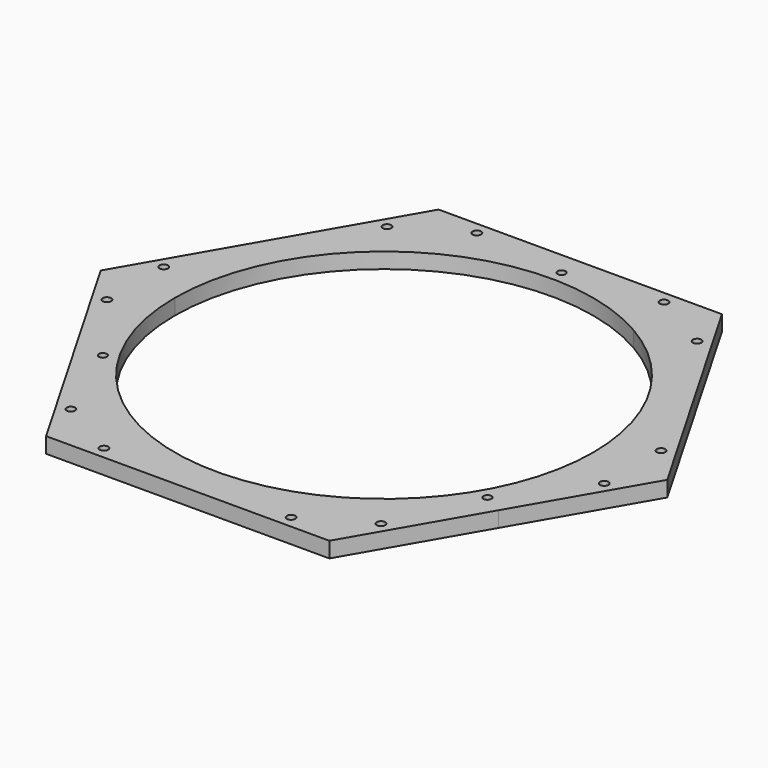
from build123d import *

# Parameters (mm, degrees)
F0_R     = 1.6375
F1_DEPTH = 6.35
F2_R     = 1.7272
F3_DEPTH = 25


with BuildPart() as f1:
    # F0 (on Top) → F1 (new body)
    with BuildSketch(Plane.XY):
        with BuildLine():
            ThreePointArc((86.602541, -50), (96.592583, -25.881904), (100, 0))
            ThreePointArc((100, 0), (96.592583, 25.881904), (86.602541, 49.999999))
            ThreePointArc((86.602541, 49.999999), (50.000001, 86.60254), (0, 100))
            ThreePointArc((0, 100), (-50.000001, 86.60254), (-86.602541, 49.999999))
            ThreePointArc((-86.602541, 49.999999), (-100, 1e-06), (-86.602542, -49.999998))
            ThreePointArc((-86.602542, -49.999998), (-50.000001, -86.60254), (0, -100))
            ThreePointArc((0, -100), (50, -86.60254), (86.602541, -50))
        make_face()
        with Locations((-78.364474, -45.24375)):
            Circle(F0_R, mode=Mode.SUBTRACT)
        with Locations((78.364474, -45.24375)):
            Circle(F0_R, mode=Mode.SUBTRACT)
        with BuildLine():
            ThreePointArc((42.64375, 73.861142), (73.861142, 42.64375), (85.2875, 0))
            ThreePointArc((85.2875, 0), (73.861142, -42.64375), (42.64375, -73.861142))
            ThreePointArc((42.64375, -73.861142), (-42.64375, -73.861142), (-85.2875, 0))
            ThreePointArc((-85.2875, 0), (-42.64375, 73.861142), (42.64375, 73.861142))
        make_face(mode=Mode.SUBTRACT)
        with Locations((0, 90.4875)):
            Circle(F0_R, mode=Mode.SUBTRACT)
        with BuildLine():
            ThreePointArc((86.602541, 49.999999), (96.592583, 25.881904), (100, 0))
            ThreePointArc((100, 0), (96.592583, -25.881904), (86.602541, -50))
            Line((86.602541, -50), (115.470054, 0))
            Line((115.470054, 0), (86.602541, 49.999999))
        make_face()
        with BuildLine():
            ThreePointArc((0, 100), (50.000001, 86.60254), (86.602541, 49.999999))
            Line((86.602541, 49.999999), (57.735027, 100))
            Line((57.735027, 100), (0, 100))
        make_face()
        with BuildLine():
            Line((57.735027, -100), (86.602541, -50))
            ThreePointArc((86.602541, -50), (50, -86.60254), (0, -100))
            Line((0, -100), (57.735027, -100))
        make_face()
        with BuildLine():
            ThreePointArc((-86.602541, 49.999999), (-50.000001, 86.60254), (0, 100))
            Line((0, 100), (-57.735027, 100))
            Line((-57.735027, 100), (-86.602541, 49.999999))
        make_face()
        with BuildLine():
            Line((-57.735027, -100), (0, -100))
            ThreePointArc((0, -100), (-50.000001, -86.60254), (-86.602542, -49.999998))
            Line((-86.602542, -49.999998), (-57.735027, -100))
        make_face()
        with BuildLine():
            ThreePointArc((-86.602542, -49.999998), (-100, 1e-06), (-86.602541, 49.999999))
            Line((-86.602541, 49.999999), (-115.470054, 0))
            Line((-115.470054, 0), (-86.602542, -49.999998))
        make_face()
    extrude(amount=F1_DEPTH)

    # F2 (on Top) → F3 (cut)
    with BuildSketch(Plane.XY):
        with Locations((38.148276, 95)):
            Circle(F2_R)
        with Locations((-38.148276, 95)):
            Circle(F2_R)
        with Locations((-63.198276, 80.537376)):
            Circle(F2_R)
        with Locations((-101.346551, 14.462624)):
            Circle(F2_R)
        with Locations((-101.346551, -14.462624)):
            Circle(F2_R)
        with Locations((-63.198276, -80.537376)):
            Circle(F2_R)
        with Locations((-38.148276, -95)):
            Circle(F2_R)
        with Locations((38.148276, -95)):
            Circle(F2_R)
        with Locations((63.198276, -80.537376)):
            Circle(F2_R)
        with Locations((101.346551, -14.462624)):
            Circle(F2_R)
        with Locations((101.346551, 14.462624)):
            Circle(F2_R)
        with Locations((63.198276, 80.537376)):
            Circle(F2_R)
    extrude(amount=F3_DEPTH, mode=Mode.SUBTRACT)


solid = f1.part
